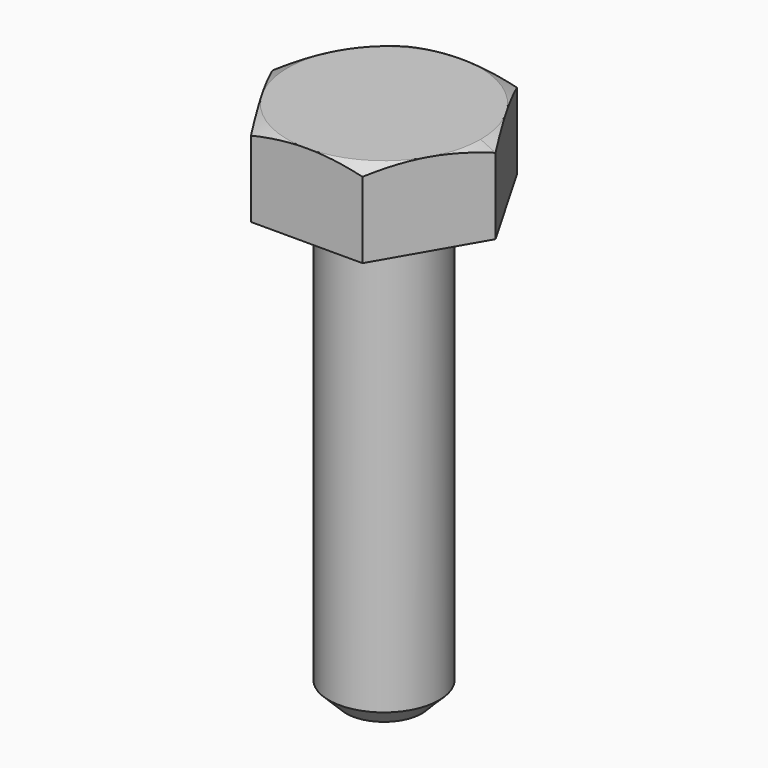
from build123d import *

# Parameters (mm, degrees)
SKETCH001_R  = 7.415805
POCKET_DEPTH = 30.1762
CHAMFER_SIZE = 1


with BuildPart() as part:
    # Sketch → Revolution (revolve)
    with BuildSketch(Plane.XZ):
        Polygon((0, 4.7752), (5.55625, 4.7752), (6.4158, 4.374385), (6.4158, 0), (3.175, 0), (3.175, -25.4), (0, -25.4), align=None)
    revolve(axis=Axis((0, 0, 0), (0, 0, 1)))

    # Sketch001 → Pocket (cut, through all)
    with BuildSketch(Plane(origin=(0, 0, 4.7752), x_dir=(-1, 0, 0), z_dir=(0, 0, 1))):
        Circle(SKETCH001_R)
        Polygon((-3.207902, 5.55625), (3.207902, 5.55625), (6.415805, 0), (3.207902, -5.55625), (-3.207902, -5.55625), (-6.415805, 0), align=None, mode=Mode.SUBTRACT)
    extrude(amount=-POCKET_DEPTH, mode=Mode.SUBTRACT)

    # Chamfer
    chamfer_edges = [part.edges().sort_by_distance(p)[0] for p in [
        (-3.175, 0, -25.4),
    ]]
    chamfer(chamfer_edges, length=CHAMFER_SIZE)


solid = part.part
